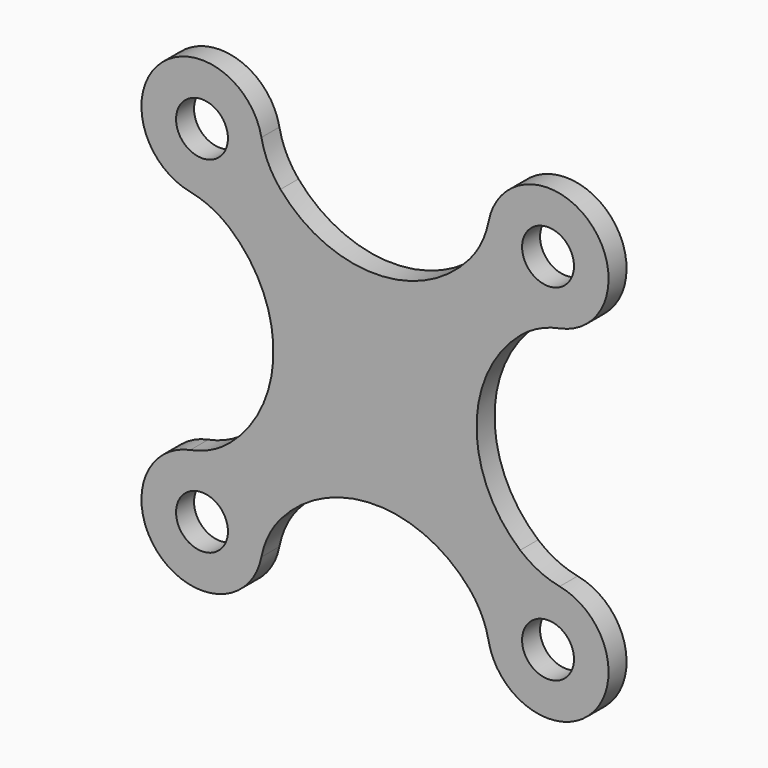
from build123d import *

# Parameters (mm, degrees)
F0_R     = 1.5
F1_DEPTH = 1.3


with BuildPart() as f1:
    # F0 (on Front) → F1 (new body)
    with BuildSketch(Plane.XZ):
        with BuildLine():
            ThreePointArc((-8.391363, -5.463446), (-9.461447, -6.161412), (-10.673479, -6.565408))
            ThreePointArc((-10.673479, -6.565408), (-12.474874, -12.474874), (-6.565408, -10.673479))
            ThreePointArc((-6.565408, -10.673479), (-6.161412, -9.461447), (-5.463446, -8.391363))
            ThreePointArc((-5.463446, -8.391363), (0, -5.870058), (5.463446, -8.391363))
            ThreePointArc((5.463446, -8.391363), (6.161412, -9.461447), (6.565408, -10.673479))
            ThreePointArc((6.565408, -10.673479), (12.474874, -12.474874), (10.673479, -6.565408))
            ThreePointArc((10.673479, -6.565408), (9.461447, -6.161412), (8.391363, -5.463446))
            ThreePointArc((8.391363, -5.463446), (5.870058, 0), (8.391363, 5.463446))
            ThreePointArc((8.391363, 5.463446), (9.461447, 6.161412), (10.673479, 6.565408))
            ThreePointArc((10.673479, 6.565408), (12.474874, 12.474874), (6.565408, 10.673479))
            ThreePointArc((6.565408, 10.673479), (6.161412, 9.461447), (5.463446, 8.391363))
            ThreePointArc((5.463446, 8.391363), (0, 5.870058), (-5.463446, 8.391363))
            ThreePointArc((-5.463446, 8.391363), (-6.161412, 9.461447), (-6.565408, 10.673479))
            ThreePointArc((-6.565408, 10.673479), (-12.474874, 12.474874), (-10.673479, 6.565408))
            ThreePointArc((-10.673479, 6.565408), (-9.461447, 6.161412), (-8.391363, 5.463446))
            ThreePointArc((-8.391363, 5.463446), (-5.870058, 0), (-8.391363, -5.463446))
        make_face()
        with Locations((-10, -10)):
            Circle(F0_R, mode=Mode.SUBTRACT)
        with Locations((10, -10)):
            Circle(F0_R, mode=Mode.SUBTRACT)
        with Locations((-10, 10)):
            Circle(F0_R, mode=Mode.SUBTRACT)
        with Locations((10, 10)):
            Circle(F0_R, mode=Mode.SUBTRACT)
    extrude(amount=F1_DEPTH)


solid = f1.part
